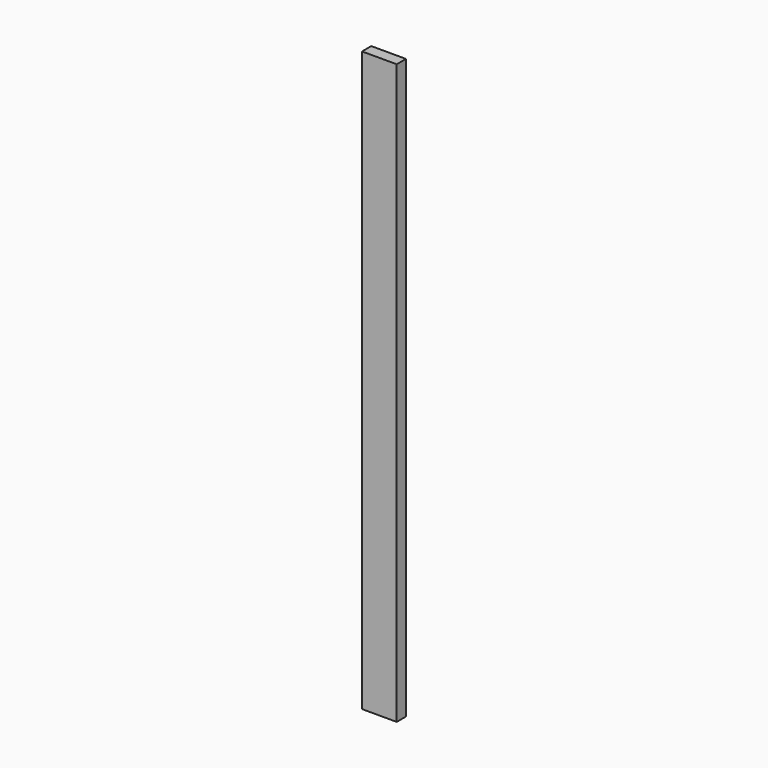
from build123d import *

# Parameters (mm, degrees)
SKETCH_W  = 30
SKETCH_H  = 10
PAD_DEPTH = 500


with BuildPart() as part:
    # Sketch → Pad (new body)
    with BuildSketch(Plane.XY):
        Rectangle(SKETCH_W, SKETCH_H)
    extrude(amount=PAD_DEPTH)


solid = part.part
